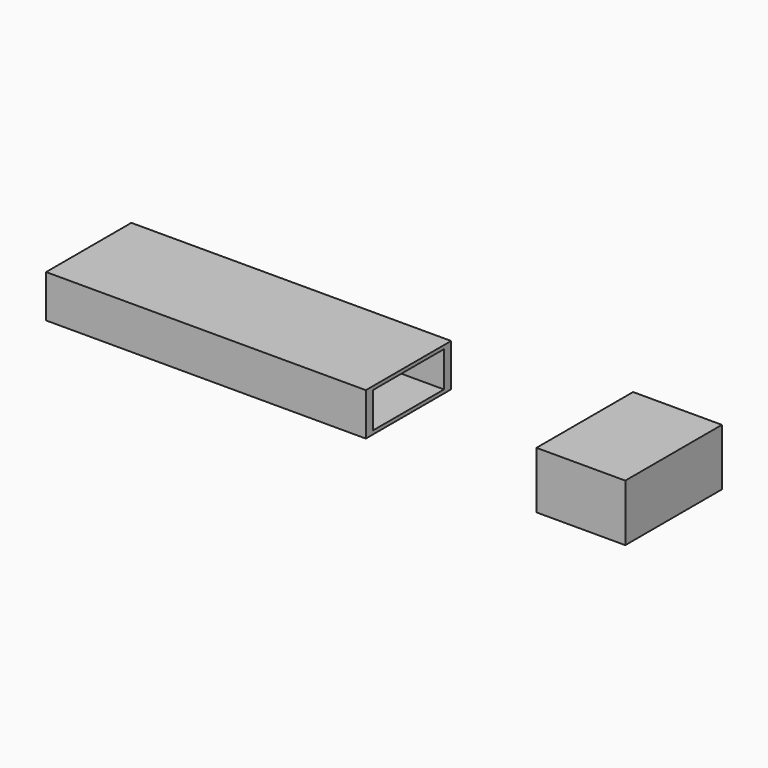
from build123d import *

# Parameters (mm, degrees)
F1_DEPTH = 7.62
F2_DEPTH = 10.16
F3_W     = 15.875
F3_H     = 6.35
F5_DEPTH = 55.88
F4_W     = 19.558
F4_H     = 8.128
F6_DEPTH = 14.605


with BuildPart() as f1:
    # F0 (on Top) → F1 (new body)
    with BuildSketch(Plane.XY):
        Polygon((-0.516103, 16.699383), (-57.666103, 16.699383), (-57.666103, 7.174383), (-57.666103, -2.350618), (-0.516103, -2.350618), align=None)
    extrude(amount=F1_DEPTH)

    # F3 (on face) → F5 (cut)
    with BuildSketch(Plane.YZ.offset(-0.516103)):
        with Locations((7.174383, 3.81)):
            Rectangle(F3_W, F3_H)
    extrude(amount=-F5_DEPTH, mode=Mode.SUBTRACT)


with BuildPart() as f2:
    # F0 (on Top) → F2 (new body)
    with BuildSketch(Plane.XY):
        Polygon((47.880947, -4.890617), (47.880947, 5.904383), (47.880947, 16.699383), (32.005947, 16.699383), (32.005947, -4.890617), align=None)
    extrude(amount=F2_DEPTH)

    # F4 (on face) → F6 (cut)
    with BuildSketch(Plane(origin=(32.005947, 0, 0), x_dir=(0, -1, 0), z_dir=(-1, 0, 0))):
        with Locations((-5.904383, 5.08)):
            Rectangle(F4_W, F4_H)
    extrude(amount=-F6_DEPTH, mode=Mode.SUBTRACT)


solid = Compound([f1.part, f2.part])
